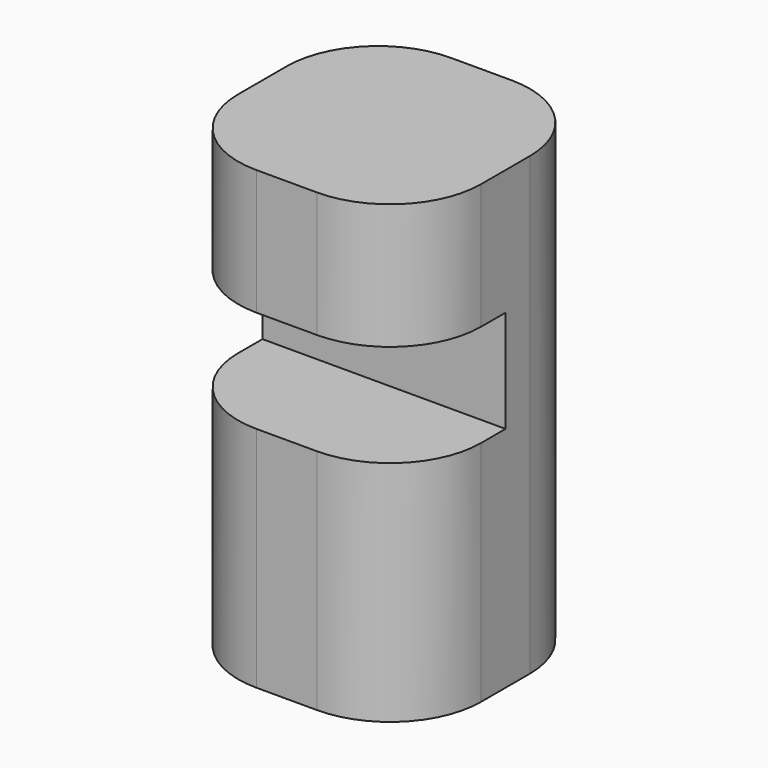
from build123d import *

# Parameters (mm, degrees)
F0_W     = 800
F0_H     = 800
F1_DEPTH = 1500
F2_W     = 800
F2_H     = 336.829662323
F3_DEPTH = 400
F4_R     = 300


with BuildPart() as f1:
    # F0 (on Top) → F1 (new body)
    with BuildSketch(Plane.XY):
        with Locations((-4.4129546732, -53.8649755846)):
            Rectangle(F0_W, F0_H)
    extrude(amount=F1_DEPTH)

    # F2 (on face) → F3 (cut)
    with BuildSketch(Plane.XZ.offset(453.8649755846)):
        with Locations((-4.4129546732, 918.4148311615)):
            Rectangle(F2_W, F2_H)
    extrude(amount=-F3_DEPTH, mode=Mode.SUBTRACT)

    # F4
    f4_edges = [f1.edges().sort_by_distance(p)[0] for p in [
        (-404.412955, 346.135024, 750),
        (395.587045, 346.135024, 750),
        (-404.412955, -453.864976, 1293.414831),
        (-404.412955, -453.864976, 375),
        (395.587045, -453.864976, 1293.414831),
        (395.587045, -453.864976, 375),
    ]]
    fillet(f4_edges, radius=F4_R)


solid = f1.part
